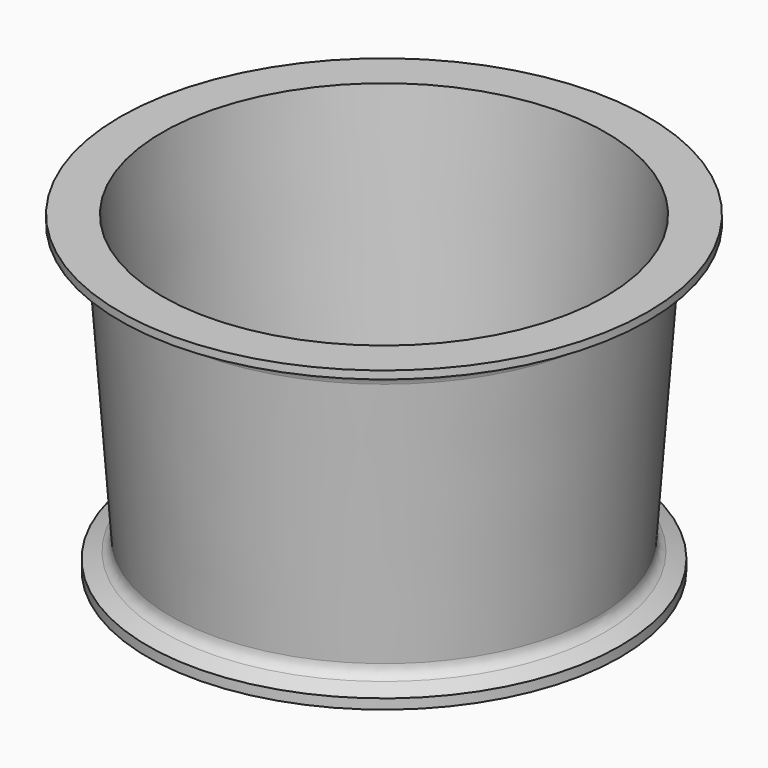
from build123d import *

# Parameters (mm, degrees)
F2_R = 0.8
F3_R = 3


with BuildPart() as f1:
    # F0 (on Front) → F1 (revolve)
    with BuildSketch(Plane.XZ):
        Polygon((66.5, 40.850982), (55.8942, 40.850982), (50.126342, -38.021039), (54, -38.021039), (54, -39.021039), (57, -39.021039), (57, -38.021039), (59.5, -38.021039), (59.5, -35.521039), (53.5, -33.021039), (58.5, 35.350982), (66.5, 38.850982), align=None)
    revolve(axis=Axis((0, 0, -10.226812), (0, 0, -1)))

    # F2
    f2_edges = [f1.edges().sort_by_distance(p)[0] for p in [
        (-54, 0, -39.021039),
        (-57, 0, -39.021039),
    ]]
    fillet(f2_edges, radius=F2_R)

    # F3
    f3_edges = [f1.edges().sort_by_distance(p)[0] for p in [
        (-58.5, 0, 35.350982),
        (-53.5, 0, -33.021039),
    ]]
    fillet(f3_edges, radius=F3_R)


solid = f1.part
